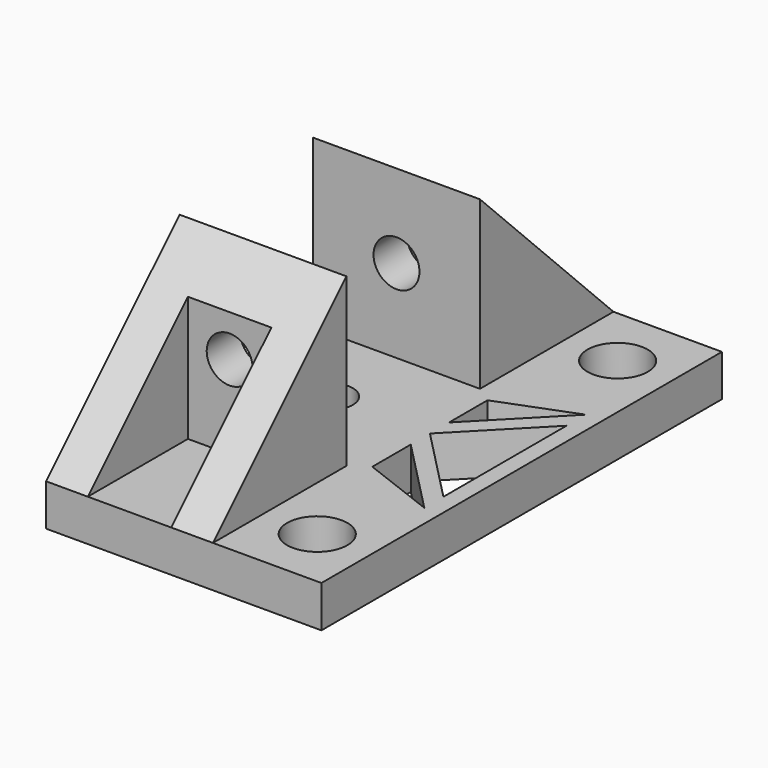
from build123d import *

# Parameters (mm, degrees)
F1_DEPTH = 5
F3_DEPTH = 20
F5_DEPTH = 20.001
F7_D     = 7.23
F9_DEPTH = 5.001
F10_D    = 5.5
F11_D    = 5.5


with BuildPart() as f1:
    # F0 (on Top) → F1 (new body)
    with BuildSketch(Plane.XY):
        Polygon((33, 0), (0, 0), (0, -60), (33, -60), (33, -45), (33, -15), align=None)
    extrude(amount=F1_DEPTH)

    # F2 (on face) → F3 (join)
    with BuildSketch(Plane.XY.offset(5)):
        Polygon((0, -20), (20, -20), (20, 0), (15, 0), (15, -15), (5, -15), (5, 0), (0, 0), align=None)
        Polygon((20, -40), (0, -40), (0, -60), (5, -60), (5, -45), (15, -45), (15, -60), (20, -60), align=None)
    extrude(amount=F3_DEPTH)

    # F4 (on face) → F5 (cut, through all)
    with BuildSketch(Plane.YZ.offset(20)):
        Polygon((0, 25), (-20, 25), (0, 5), align=None)
        Polygon((-60, 5), (-40, 25), (-60, 25), align=None)
    extrude(amount=-F5_DEPTH, mode=Mode.SUBTRACT)

    # F7 (through all)
    with Locations(Plane(origin=(0, 0, 0), x_dir=(1, 0, 0), z_dir=(0, 0, -1))):
        with Locations((26.5, 7.5), (26.5, 52.5)):
            Hole(F7_D / 2)

    # F8 (on face) → F9 (cut, through all)
    with BuildSketch(Plane.XY.offset(5)):
        Polygon((31, -39.2240850911), (31, -20.7759149089), (22, -30), align=None)
        Polygon((22, -27.136144826), (31, -17.912059735), (22, -21.3735981965), align=None)
        Polygon((22, -32.863855174), (22, -38.6264018035), (31, -42.087940265), align=None)
    extrude(amount=-F9_DEPTH, mode=Mode.SUBTRACT)

    # F10 (through all)
    with Locations(Plane(origin=(0, 0, 0), x_dir=(1, 0, 0), z_dir=(0, 0, -1))):
        with Locations((10, 30)):
            Hole(F10_D / 2)

    # F11 (through all)
    with Locations(Plane.XZ.offset(45)):
        with Locations((10, 15)):
            Hole(F11_D / 2)


solid = f1.part
